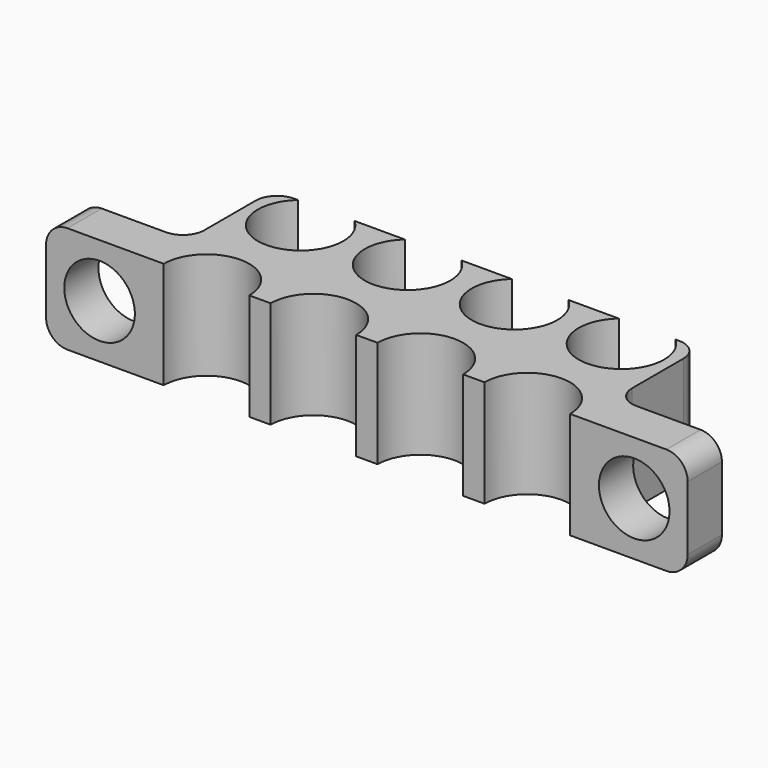
from build123d import *

# Parameters (mm, degrees)
F1_DEPTH = 5
F2_R     = 1.65
F3_DEPTH = 2.001
F5_DEPTH = 5
F6_R     = 1


with BuildPart() as f1:
    # F0 (on Top) → F1 (new body)
    with BuildSketch(Plane.XY):
        Polygon((10, 5), (-10, 5), (-10, 0), (-15, 0), (-15, -2), (-10, -2), (10, -2), (15, -2), (15, 0), (10, 0), align=None)
    extrude(amount=F1_DEPTH)

    # F2 (on face) → F3 (cut, through all)
    with BuildSketch(Plane(origin=(0, 0, 0), x_dir=(-1, 0, 0), z_dir=(0, 1, 0))):
        with Locations((-12.5, 2.5)):
            Circle(F2_R)
        with Locations((12.5, 2.5)):
            Circle(F2_R)
    extrude(amount=-F3_DEPTH, mode=Mode.SUBTRACT)

    # F4 (on face) → F5 (cut, through all)
    with BuildSketch(Plane.XY.offset(5)):
        with BuildLine():
            Line((-9.5, -2), (-5.5, -2))
            ThreePointArc((-5.5, -2), (-7.5, 0), (-9.5, -2))
        make_face()
        with BuildLine():
            ThreePointArc((-0.5, -2), (-2.5, 0), (-4.5, -2))
            Line((-4.5, -2), (-0.5, -2))
        make_face()
        with BuildLine():
            ThreePointArc((4.5, -2), (2.5, 0), (0.5, -2))
            Line((0.5, -2), (4.5, -2))
        make_face()
        with BuildLine():
            ThreePointArc((9.5, -2), (7.5, 0), (5.5, -2))
            Line((5.5, -2), (9.5, -2))
        make_face()
        with BuildLine():
            ThreePointArc((-6.177124, 5), (-7.5, 5.5), (-8.822876, 5))
            Line((-8.822876, 5), (-6.177124, 5))
        make_face()
        with BuildLine():
            ThreePointArc((-1.177124, 5), (-2.5, 5.5), (-3.822876, 5))
            Line((-3.822876, 5), (-1.177124, 5))
        make_face()
        with BuildLine():
            Line((3.822876, 5), (1.177124, 5))
            ThreePointArc((1.177124, 5), (1.677124, 1.677124), (4.5, 3.5))
            ThreePointArc((4.5, 3.5), (4.322876, 4.322876), (3.822876, 5))
        make_face()
        with BuildLine():
            ThreePointArc((9.5, 3.5), (9.322876, 4.322876), (8.822876, 5))
            Line((8.822876, 5), (6.177124, 5))
            ThreePointArc((6.177124, 5), (6.677124, 1.677124), (9.5, 3.5))
        make_face()
        with BuildLine():
            Line((-6.177124, 5), (-8.822876, 5))
            ThreePointArc((-8.822876, 5), (-8.322876, 1.677124), (-5.5, 3.5))
            ThreePointArc((-5.5, 3.5), (-5.677124, 4.322876), (-6.177124, 5))
        make_face()
        with BuildLine():
            Line((-1.177124, 5), (-3.822876, 5))
            ThreePointArc((-3.822876, 5), (-3.322876, 1.677124), (-0.5, 3.5))
            ThreePointArc((-0.5, 3.5), (-0.677124, 4.322876), (-1.177124, 5))
        make_face()
        with BuildLine():
            ThreePointArc((3.822876, 5), (2.5, 5.5), (1.177124, 5))
            Line((1.177124, 5), (3.822876, 5))
        make_face()
        with BuildLine():
            Line((6.177124, 5), (8.822876, 5))
            ThreePointArc((8.822876, 5), (7.5, 5.5), (6.177124, 5))
        make_face()
    extrude(amount=-F5_DEPTH, mode=Mode.SUBTRACT)

    # F6
    f6_edges = [f1.edges().sort_by_distance(p)[0] for p in [
        (-10, 0, 2.5),
        (10, 0, 2.5),
        (10, 5, 2.5),
        (-10, 5, 2.5),
        (15, -1, 5),
        (15, -1, 0),
        (-15, -1, 0),
        (-15, -1, 5),
    ]]
    fillet(f6_edges, radius=F6_R)


solid = f1.part
